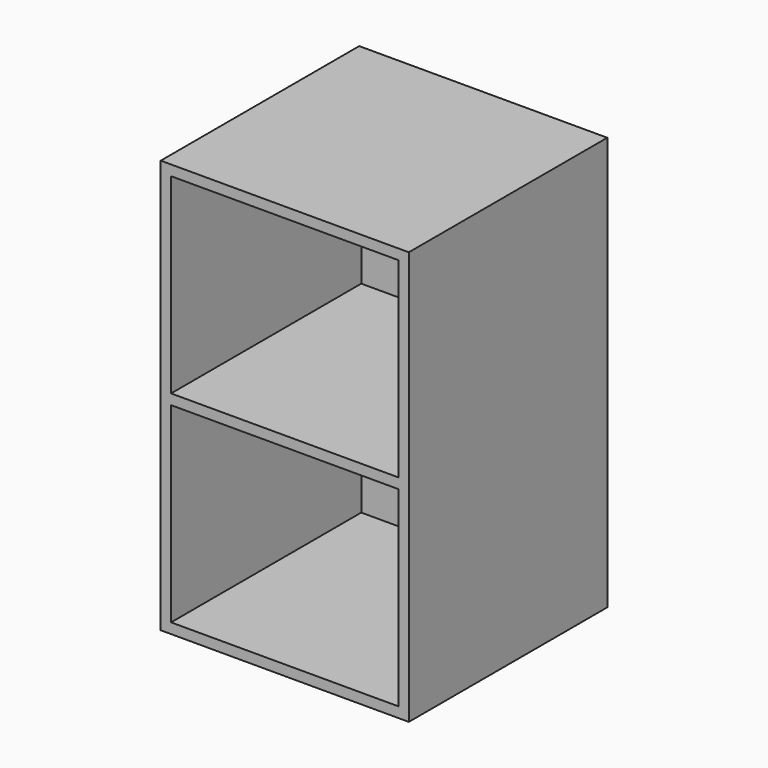
from build123d import *

# Parameters (mm, degrees)
F0_W     = 76.2
F0_H     = 127
F0_W_2   = 69.85
F0_H_2   = 3.175
F0_H_3   = 58.7375
F1_DEPTH = 3.175
F2_DEPTH = 76.2


with BuildPart() as f1:
    # F0 (on Front) → F1 (new body)
    with BuildSketch(Plane.XZ):
        Rectangle(F0_W, F0_H)
        Polygon((34.925, -60.325), (-34.925, -60.325), (-34.925, -1.5875), (-34.925, 1.5875), (-34.925, 60.325), (34.925, 60.325), (34.925, 1.5875), (34.925, -1.5875), align=None, mode=Mode.SUBTRACT)
        Rectangle(F0_W_2, F0_H_2)
        with Locations((0, 30.95625)):
            Rectangle(F0_W_2, F0_H_3)
        with Locations((0, -30.95625)):
            Rectangle(F0_W_2, F0_H_3)
    extrude(amount=F1_DEPTH)


with BuildPart() as f2:
    # F0 (on Front) → F2 (new body)
    with BuildSketch(Plane.XZ):
        Rectangle(F0_W, F0_H)
        Polygon((34.925, -60.325), (-34.925, -60.325), (-34.925, -1.5875), (-34.925, 1.5875), (-34.925, 60.325), (34.925, 60.325), (34.925, 1.5875), (34.925, -1.5875), align=None, mode=Mode.SUBTRACT)
        Rectangle(F0_W_2, F0_H_2)
    extrude(amount=F2_DEPTH)


solid = Compound([f1.part, f2.part])
